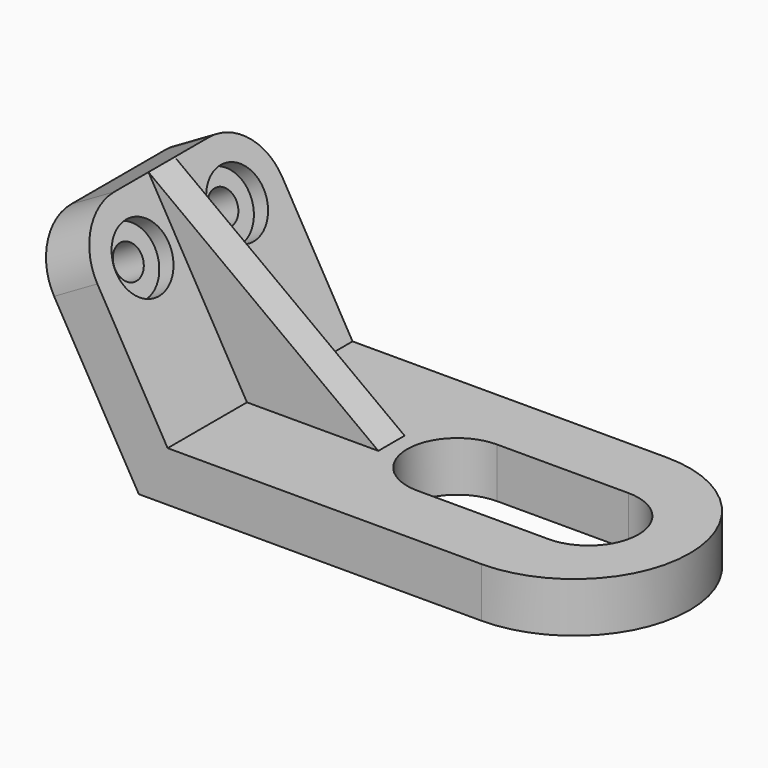
from build123d import *

# Parameters (mm, degrees)
F1_DEPTH  = 22.352
F2_DEPTH  = 3.175
F3_R      = 10.922
F5_DEPTH  = 9.652
F6_DEPTH  = 25.4
F7_R      = 3.175
F9_DEPTH  = 9.652
F8_R      = 6.35
F10_DEPTH = 3.175


with BuildPart() as f1:
    # F0 (on Front) → F1 (new body, symmetric)
    with BuildSketch(Plane.XZ):
        Polygon((28.1862923991, 4.826), (2.7862923991, 4.826), (-16.2637076009, 37.8215678842), (-24.6225847982, 32.9955678842), (-2.7862923991, -4.826), (63.5, -4.826), (63.5, 4.826), align=None)
    extrude(amount=F1_DEPTH, both=True)

    # F0 (on Front) → F2 (join, symmetric)
    with BuildSketch(Plane.XZ):
        Polygon((-16.2637076009, 37.8215678842), (2.7862923991, 4.826), (28.1862923991, 4.826), align=None)
    extrude(amount=F2_DEPTH, both=True)

    # F3
    f3_edges = [f1.edges().sort_by_distance(p)[0] for p in [
        (-20.443146, -22.352, 35.408568),
        (-20.443146, 22.352, 35.408568),
    ]]
    fillet(f3_edges, radius=F3_R)

    # F4 (on face) → F5 (join)
    with BuildSketch(Plane.XY.offset(4.826)):
        with BuildLine():
            Line((63.5, -9.652), (63.5, -22.352))
            ThreePointArc((63.5, -22.352), (85.852, 0), (63.5, 22.352))
            Line((63.5, 22.352), (63.5, 9.652))
            Line((63.5, 9.652), (66.2862923991, 9.652))
            ThreePointArc((66.2862923991, 9.652), (75.9382923991, 0), (66.2862923991, -9.652))
            Line((66.2862923991, -9.652), (63.5, -9.652))
        make_face()
    extrude(amount=-F5_DEPTH)

    # F4 (on face) → F6 (cut)
    with BuildSketch(Plane.XY.offset(4.826)):
        with BuildLine():
            Line((40.8862923991, -9.652), (63.5, -9.652))
            Line((63.5, -9.652), (63.5, 9.652))
            Line((63.5, 9.652), (40.8862923991, 9.652))
            ThreePointArc((40.8862923991, 9.652), (31.2342923991, 0), (40.8862923991, -9.652))
        make_face()
    extrude(amount=-F6_DEPTH, mode=Mode.SUBTRACT)

    # F7 (on face) → F9 (cut, through all)
    with BuildSketch(Plane(origin=(-4.1794385987, 0, -2.413), x_dir=(0, -1, 0), z_dir=(-0.8660254038, 0, -0.5))):
        with Locations((11.43, 29.9642923991)):
            Circle(F7_R)
        with BuildLine():
            ThreePointArc((-8.255, 29.9642923991), (-11.43, 33.1392923991), (-14.605, 29.9642923991))
            ThreePointArc((-14.605, 29.9642923991), (-11.43, 26.7892923991), (-8.255, 29.9642923991))
        make_face()
    extrude(amount=-F9_DEPTH, mode=Mode.SUBTRACT)

    # F8 (on face) → F10 (cut)
    with BuildSketch(Plane(origin=(4.1794385987, 0, 2.413), x_dir=(0, 1, 0), z_dir=(0.8660254038, 0, 0.5))):
        with Locations((-11.43, 29.9642923991)):
            Circle(F8_R)
        with Locations((11.43, 29.9642923991)):
            Circle(F8_R)
    extrude(amount=-F10_DEPTH, mode=Mode.SUBTRACT)


solid = f1.part
